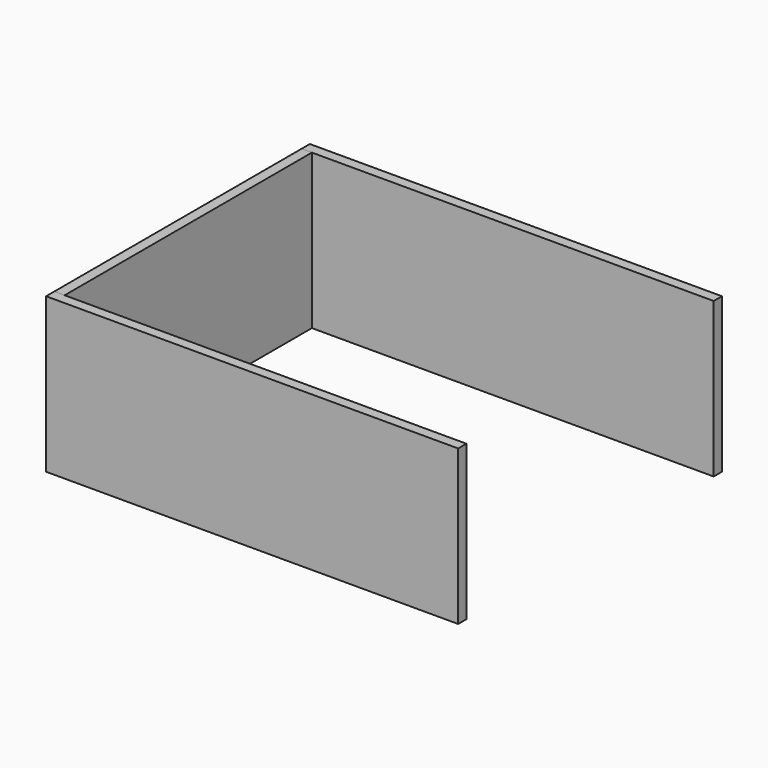
from build123d import *

# Parameters (mm, degrees)
F0_W     = 300
F0_H     = 150
F1_DEPTH = 10
F2_W     = 390
F2_H     = 150
F2_W_2   = 10
F3_DEPTH = 10


with BuildPart() as f1:
    # F0 (on Right) → F1 (new body)
    with BuildSketch(Plane.YZ):
        Rectangle(F0_W, F0_H)
    extrude(amount=F1_DEPTH)


with BuildPart() as f3:
    # F2 (on face) → F3 (new body)
    with BuildSketch(Plane.XZ.offset(150)):
        with Locations((205, 0)):
            Rectangle(F2_W, F2_H)
        with Locations((5, 0)):
            Rectangle(F2_W_2, F2_H)
    extrude(amount=F3_DEPTH)


with BuildPart() as f4_1:
    # F4: instance of F3
    add(f3.part.mirror(Plane.XZ))


solid = Compound([f1.part, f3.part, f4_1.part])
